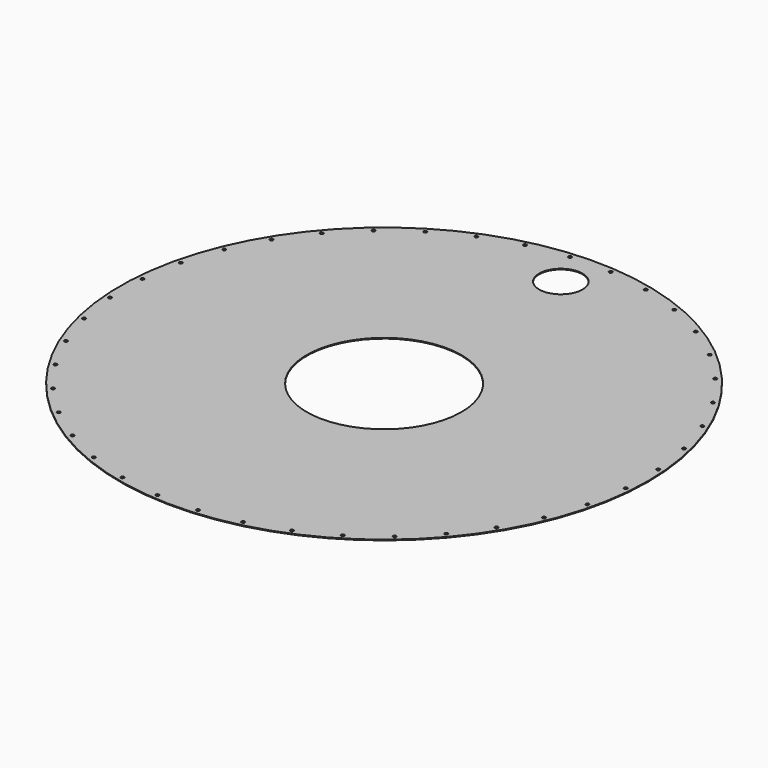
from build123d import *

# Parameters (mm, degrees)
F0_R     = 1042.9875
F0_R_2   = 6.35
F0_R_3   = 305.59375
F0_R_4   = 85.725
F1_DEPTH = 3.048


with BuildPart() as f1:
    # F0 (on Top) → F1 (new body)
    with BuildSketch(Plane.XY):
        Circle(F0_R)
        with Locations((-534.176408, -871.696672)):
            Circle(F0_R_2, mode=Mode.SUBTRACT)
        with Locations((-871.696672, -534.176408)):
            Circle(F0_R_2, mode=Mode.SUBTRACT)
        with Locations((-663.963212, -777.401039)):
            Circle(F0_R_2, mode=Mode.SUBTRACT)
        with Locations((-777.401039, -663.963212)):
            Circle(F0_R_2, mode=Mode.SUBTRACT)
        with Locations((-391.236407, -944.52824)):
            Circle(F0_R_2, mode=Mode.SUBTRACT)
        with Locations((-238.662868, -994.102388)):
            Circle(F0_R_2, mode=Mode.SUBTRACT)
        with Locations((-80.212657, -1019.198436)):
            Circle(F0_R_2, mode=Mode.SUBTRACT)
        with Locations((-944.52824, -391.236407)):
            Circle(F0_R_2, mode=Mode.SUBTRACT)
        with Locations((-994.102388, -238.662868)):
            Circle(F0_R_2, mode=Mode.SUBTRACT)
        with Locations((-1019.198436, -80.212657)):
            Circle(F0_R_2, mode=Mode.SUBTRACT)
        with Locations((80.212657, -1019.198436)):
            Circle(F0_R_2, mode=Mode.SUBTRACT)
        with Locations((238.662868, -994.102388)):
            Circle(F0_R_2, mode=Mode.SUBTRACT)
        with Locations((391.236407, -944.52824)):
            Circle(F0_R_2, mode=Mode.SUBTRACT)
        with Locations((534.176408, -871.696672)):
            Circle(F0_R_2, mode=Mode.SUBTRACT)
        with Locations((663.963212, -777.401039)):
            Circle(F0_R_2, mode=Mode.SUBTRACT)
        with Locations((777.401039, -663.963212)):
            Circle(F0_R_2, mode=Mode.SUBTRACT)
        with Locations((871.696672, -534.176408)):
            Circle(F0_R_2, mode=Mode.SUBTRACT)
        with Locations((944.52824, -391.236407)):
            Circle(F0_R_2, mode=Mode.SUBTRACT)
        with Locations((994.102388, -238.662868)):
            Circle(F0_R_2, mode=Mode.SUBTRACT)
        with Locations((1019.198436, -80.212657)):
            Circle(F0_R_2, mode=Mode.SUBTRACT)
        with Locations((-1019.198436, 80.212657)):
            Circle(F0_R_2, mode=Mode.SUBTRACT)
        with Locations((-994.102388, 238.662868)):
            Circle(F0_R_2, mode=Mode.SUBTRACT)
        with Locations((-944.52824, 391.236407)):
            Circle(F0_R_2, mode=Mode.SUBTRACT)
        with Locations((-871.696672, 534.176408)):
            Circle(F0_R_2, mode=Mode.SUBTRACT)
        with Locations((-777.401039, 663.963212)):
            Circle(F0_R_2, mode=Mode.SUBTRACT)
        with Locations((-663.963212, 777.401039)):
            Circle(F0_R_2, mode=Mode.SUBTRACT)
        with Locations((-534.176408, 871.696672)):
            Circle(F0_R_2, mode=Mode.SUBTRACT)
        with Locations((-391.236407, 944.52824)):
            Circle(F0_R_2, mode=Mode.SUBTRACT)
        with Locations((-238.662868, 994.102388)):
            Circle(F0_R_2, mode=Mode.SUBTRACT)
        with Locations((-80.212657, 1019.198436)):
            Circle(F0_R_2, mode=Mode.SUBTRACT)
        Circle(F0_R_3, mode=Mode.SUBTRACT)
        with Locations((1019.198436, 80.212657)):
            Circle(F0_R_2, mode=Mode.SUBTRACT)
        with Locations((994.102388, 238.662868)):
            Circle(F0_R_2, mode=Mode.SUBTRACT)
        with Locations((944.52824, 391.236407)):
            Circle(F0_R_2, mode=Mode.SUBTRACT)
        with Locations((0, 873.125)):
            Circle(F0_R_4, mode=Mode.SUBTRACT)
        with Locations((80.212657, 1019.198436)):
            Circle(F0_R_2, mode=Mode.SUBTRACT)
        with Locations((238.662868, 994.102388)):
            Circle(F0_R_2, mode=Mode.SUBTRACT)
        with Locations((391.236407, 944.52824)):
            Circle(F0_R_2, mode=Mode.SUBTRACT)
        with Locations((777.401039, 663.963212)):
            Circle(F0_R_2, mode=Mode.SUBTRACT)
        with Locations((663.963212, 777.401039)):
            Circle(F0_R_2, mode=Mode.SUBTRACT)
        with Locations((871.696672, 534.176408)):
            Circle(F0_R_2, mode=Mode.SUBTRACT)
        with Locations((534.176408, 871.696672)):
            Circle(F0_R_2, mode=Mode.SUBTRACT)
    extrude(amount=F1_DEPTH)


solid = f1.part
